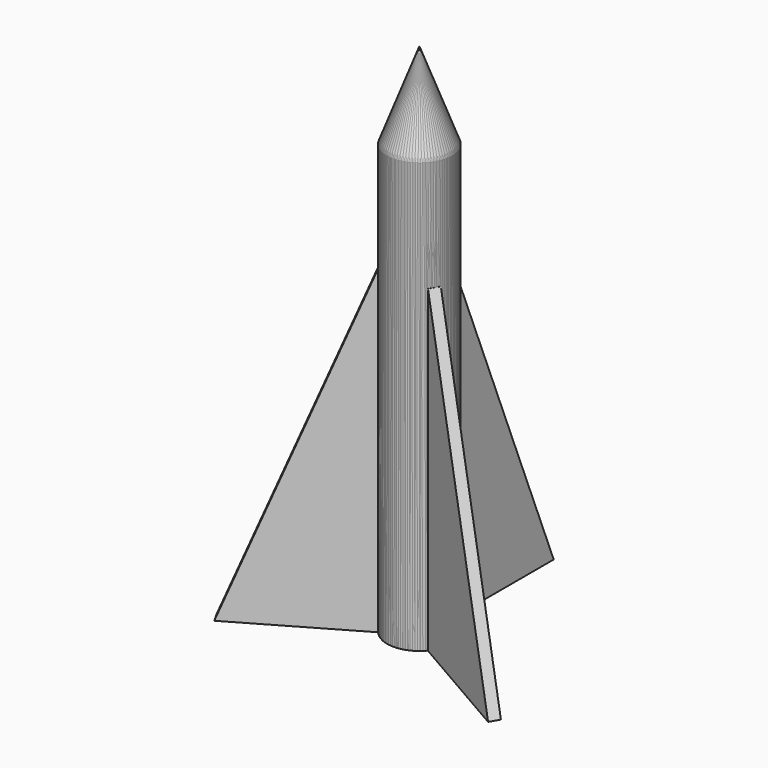
from build123d import *

# Parameters (mm, degrees)
F0_R     = 9.525
F1_DEPTH = 127
F4_W     = 5.888513
F4_H     = 94.185721
F5_DEPTH = 1.5875
F6_COUNT = 3


with BuildPart() as f1:
    # F0 (on Top) → F1 (new body)
    with BuildSketch(Plane.XY):
        Circle(F0_R)
    extrude(amount=F1_DEPTH)

    # F2 (on Front) → F3 (revolve)
    with BuildSketch(Plane.XZ):
        Polygon((0, 152.4), (-9.525, 127), (0, 127), align=None)
    revolve(axis=Axis((0, 0, 139.7), (0, 0, 1)))

    # F4 (on Right) → F5 (join, symmetric)
    with BuildSketch(Plane.YZ):
        Polygon((47.625, 0), (9.525, 94.185721), (9.525, 0), align=None)
        with Locations((6.580744, 47.092861)):
            Rectangle(F4_W, F4_H)
    extrude(amount=F5_DEPTH, both=True)


with BuildPart() as f6_1:
    # F6: instance of F1
    add(f1.part.rotate(Axis((0, 0, 0), (0, 0, -1)), 1 * 360 / F6_COUNT))


with BuildPart() as f6_2:
    # F6: instance of F1
    add(f1.part.rotate(Axis((0, 0, 0), (0, 0, -1)), 2 * 360 / F6_COUNT))


solid = Compound([f1.part, f6_1.part, f6_2.part])
